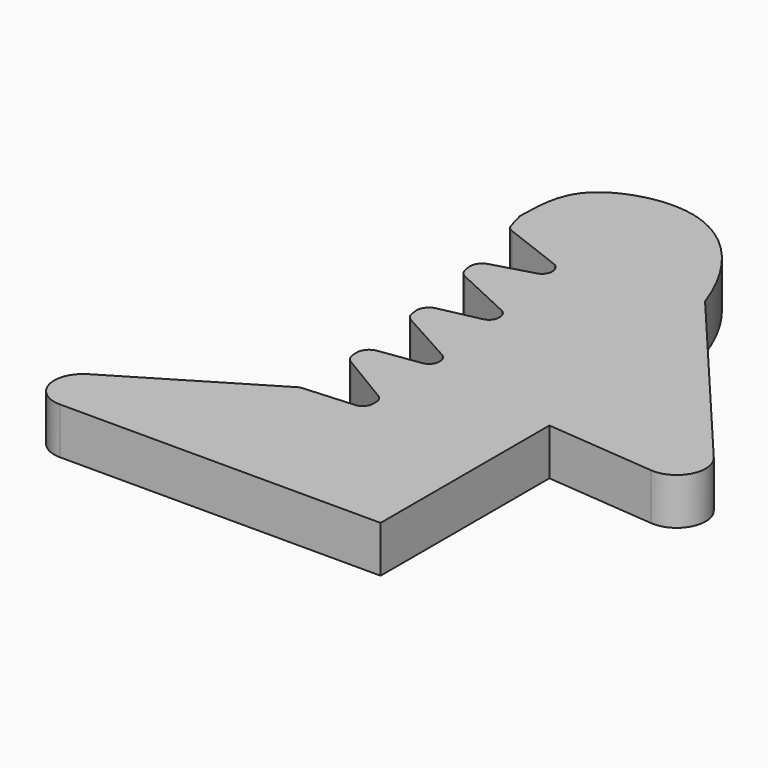
from build123d import *

# Parameters (mm, degrees)
F1_DEPTH = 3.81
F2_R     = 2.367737602
F3_R     = 0.8284878815
F4_R     = 1.016


with BuildPart() as f1:
    # F0 (on Top) → F1 (new body)
    with BuildSketch(Plane.XY):
        with BuildLine():
            Line((98.3983673645, -11.43), (99.06, -11.43))
            Line((99.06, -11.43), (114.808, -11.43))
            Line((114.808, -11.43), (114.808, 5.842))
            add(Edge.make_bspline(
                [(111.8424964318, 25.4789244169), (114.050069317, 19.269012489), (114.16942194, 10.4852159403), (114.808, 5.842)],
                knots=[0.6566118261, 0.6566118261, 0.6566118261, 0.6566118261, 1, 1, 1, 1], degree=3))
            add(Edge.make_bspline(
                [(95.2225835996, 27.3046364672), (95.2454386696, 29.8195688516), (95.6622303832, 33.3481063354), (104.8322806826, 36.1190012322), (110.1233601043, 30.3148622281), (111.8424964318, 25.4789244169)],
                knots=[0, 0, 0, 0, 0.1826926903, 0.3892000055, 0.6566118261, 0.6566118261, 0.6566118261, 0.6566118261], degree=3))
            ThreePointArc((95.2225835996, 27.3046364672), (95.4714110254, 26.4214548581), (95.7120472042, 25.5360063436))
            Line((95.7120472042, 25.5360063436), (101.4981578414, 23.3149265672))
            Line((101.4981578414, 23.3149265672), (101.7785107441, 21.99596986))
            Line((101.7785107441, 21.99596986), (96.8953013287, 20.5957320924))
            ThreePointArc((96.8953013287, 20.5957320924), (97.0819149886, 19.6973445455), (97.2601992237, 18.7972670078))
            Line((97.2601992237, 18.7972670078), (102.8772804931, 16.1779789954))
            Line((102.8772804931, 16.1779789954), (103.0649447013, 14.8426787705))
            Line((103.0649447013, 14.8426787705), (98.0959548895, 13.7864873811))
            ThreePointArc((98.0959548895, 13.7864873811), (98.2194456206, 12.8772707503), (98.3345093292, 11.9669492766))
            Line((98.3345093292, 11.9669492766), (103.7551953754, 8.9622139361))
            Line((103.7551953754, 8.9622139361), (103.8492566079, 7.617075642))
            Line((103.8492566079, 7.617075642), (98.8186948187, 6.9100762891))
            ThreePointArc((98.8186948187, 6.9100762891), (98.8784103809, 5.9952948679), (98.9296578383, 5.08))
            Line((98.9296578383, 5.08), (104.1276253753, 1.956746008))
            Line((104.1276253753, 1.956746008), (104.1276253753, 0.3543628866))
            Line((104.1276253753, 0.3543628866), (99.06, 0))
            ThreePointArc((99.06, 0), (98.8944535126, -5.7245667466), (98.3983673645, -11.43))
        make_face()
        with BuildLine():
            Line((80.01, -11.43), (98.3983673645, -11.43))
            ThreePointArc((98.3983673645, -11.43), (98.8944535126, -5.7245667466), (99.06, 0))
            Line((99.06, 0), (80.01, -11.43))
        make_face()
        with BuildLine():
            add(Edge.make_bspline(
                [(111.8424964318, 25.4789244169), (114.050069317, 19.269012489), (114.16942194, 10.4852159403), (114.808, 5.842)],
                knots=[0.6566118261, 0.6566118261, 0.6566118261, 0.6566118261, 1, 1, 1, 1], degree=3))
            Line((114.808, 5.842), (129.4839402923, 4.5580215978))
            Line((129.4839402923, 4.5580215978), (111.8424964318, 25.4789244169))
        make_face()
    extrude(amount=F1_DEPTH)

    # F2
    f2_edges = [f1.edges().sort_by_distance(p)[0] for p in [
        (80.01, -11.43, 1.905),
        (129.48394, 4.558022, 1.905),
    ]]
    fillet(f2_edges, radius=F2_R)

    # F3
    f3_edges = [f1.edges().sort_by_distance(p)[0] for p in [
        (104.127625, 0.354363, 1.905),
        (104.127625, 1.956746, 1.905),
        (103.849257, 7.617076, 1.905),
        (103.755195, 8.962214, 1.905),
        (103.064945, 14.842679, 1.905),
        (102.87728, 16.177979, 1.905),
        (101.778511, 21.99597, 1.905),
        (101.498158, 23.314927, 1.905),
        (95.712047, 25.536006, 1.905),
    ]]
    fillet(f3_edges, radius=F3_R)

    # F4
    f4_edges = [f1.edges().sort_by_distance(p)[0] for p in [
        (98.818695, 6.910076, 1.905),
        (98.095955, 13.786487, 1.905),
        (96.895301, 20.595732, 1.905),
        (97.260199, 18.797267, 1.905),
        (98.334509, 11.966949, 1.905),
        (98.929658, 5.08, 1.905),
    ]]
    fillet(f4_edges, radius=F4_R)


solid = f1.part
